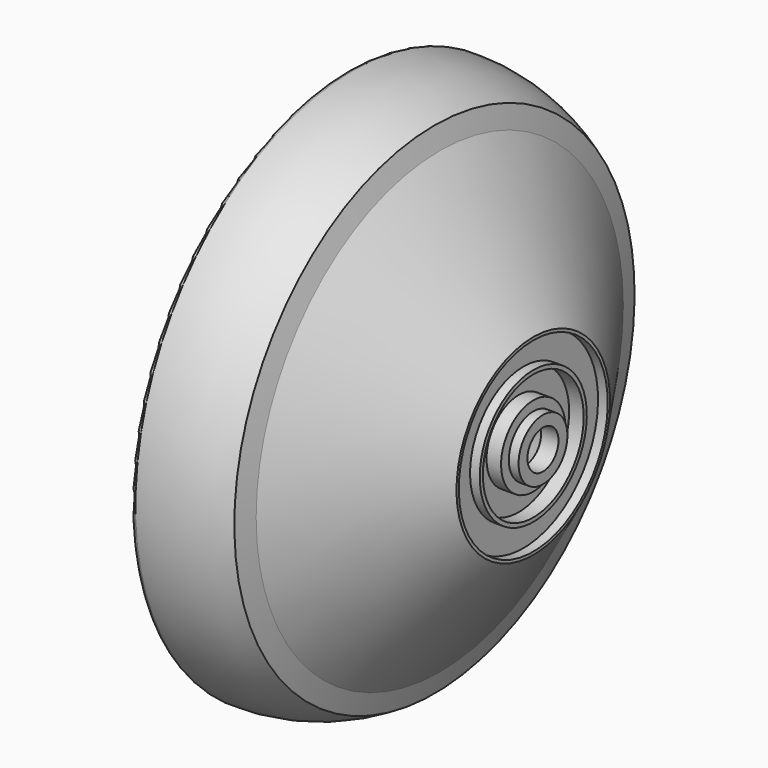
from build123d import *


with BuildPart() as f1:
    # F0 (on Front) → F1 (revolve)
    with BuildSketch(Plane.XZ):
        Polygon((-3.2, 2), (-1.4, 2), (-1.4, 3.15), (-2.4, 3.15), (-2.4, 4.15), (-3.9, 4.15), (-3.9, 6.5), (-2.4, 6.5), (-2.4, 6.9), (-3.4, 6.9), (-3.4, 9.6), (-2.4, 9.6), (-2.4, 9.9), (-12.043141, 23.672651), (-12.592734, 25.8), (-19.5, 25.8), (-19.5, 25.1), (-12.876666, 25.1), (-12.422778, 23.343103), (-4.6, 12.170354), (-4.6, 0), (-3.92794, 0), align=None)
    revolve(axis=Axis((-4.26397, 0, 0), (1, 0, 0)))


with BuildPart() as f3:
    # F2 (on Front) → F3 (revolve)
    with BuildSketch(Plane.XZ):
        with BuildLine():
            Line((-19.5, 25.1), (-19.5, 25.8))
            Line((-19.5, 25.8), (-12.592734, 25.8))
            ThreePointArc((-12.592734, 25.8), (-16.645332, 27.504437), (-21.011563, 28.018906))
            ThreePointArc((-21.011563, 28.018906), (-21.357618, 27.868481), (-21.5, 27.51904))
            Line((-21.5, 27.51904), (-21.5, 25.6))
            ThreePointArc((-21.5, 25.6), (-21.353553, 25.246447), (-21, 25.1))
            Line((-21, 25.1), (-19.5, 25.1))
        make_face()
    revolve(axis=Axis((-12.34662, 0, 0), (1, 0, 0)))


solid = Compound([f1.part, f3.part])
